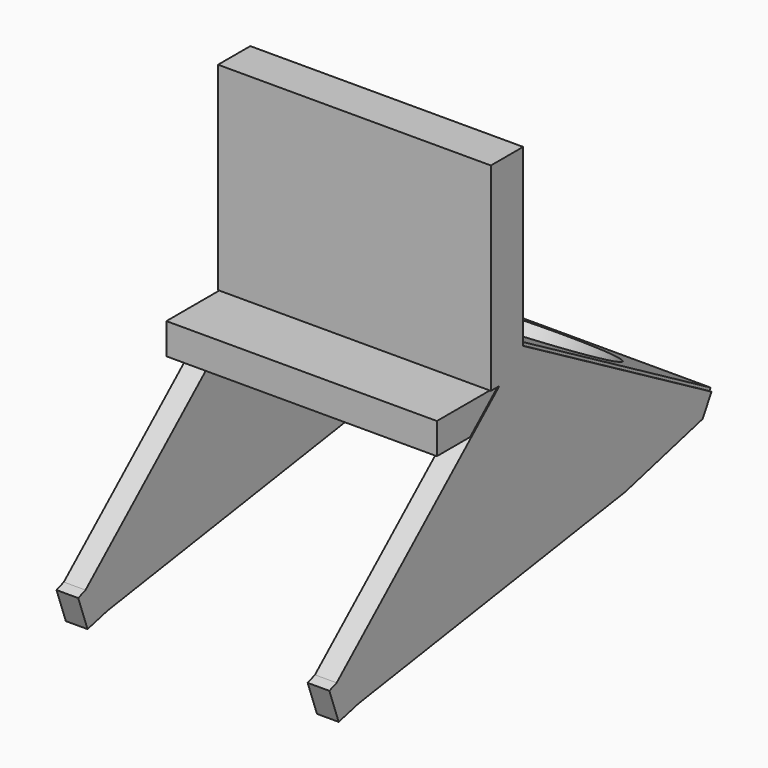
from build123d import *

# Parameters (mm, degrees)
EXTRUDE008_DEPTH                          = 7
EXTRUDE008_ONTO_SKETCH012_ROLL_ANGLE      = 90
EXTRUDE008_ONTO_SKETCH012_PITCH_ANGLE     = -30
EXTRUDE008_ONTO_SKETCH012_PLACEMENT_ANGLE = -90
SKETCH009_W                               = 87.248978
SKETCH009_H                               = 34.299007
EXTRUDE010_DEPTH                          = 10
EXTRUDE011_DEPTH                          = 7
EXTRUDE011_ONTO_SKETCH008_ROLL_ANGLE      = 90
EXTRUDE011_ONTO_SKETCH008_PITCH_ANGLE     = -30
EXTRUDE011_ONTO_SKETCH008_PLACEMENT_ANGLE = -90
SKETCH011_W                               = 88
SKETCH011_H                               = 88
SKETCH011_R                               = 38
EXTRUDE012_DEPTH                          = 7
EXTRUDE012_PLACEMENT_ANGLE                = 30
SKETCH010_W                               = 88
SKETCH010_H                               = 13
EXTRUDE009_DEPTH                          = 64


with BuildPart() as extrude008:
    # Sketch012 as drawn → Extrude008 (new)
    with BuildSketch(Plane.XY):
        Polygon((-123.305188, 6.070855), (-123.344503, -1.169558), (-100.406639, -23.66512), (-15.520081, -91.56636), (-9.4672, -97.367993), (-1.018409, -90.281281), (-3.036737, -87.875028), (-34.868234, 6.09489), align=None)
    extrude(amount=EXTRUDE008_DEPTH)


with BuildPart() as extrude008_1:
    # Extrude008 onto Sketch012 roll: moved
    add(extrude008.part.rotate(Axis((0, 0, 0), (1, 0, 0)), EXTRUDE008_ONTO_SKETCH012_ROLL_ANGLE))


with BuildPart() as extrude008_2:
    # Extrude008 onto Sketch012 pitch: moved
    add(extrude008_1.part.rotate(Axis((0, 0, 0), (0, 1, 0)), EXTRUDE008_ONTO_SKETCH012_PITCH_ANGLE))


with BuildPart() as extrude008_3:
    # Extrude008 onto Sketch012 placement: moved
    add(extrude008_2.part.moved(Location((42.577726, 14, 39))).rotate(Axis((42.577726, 14, 39), (0, 0, 1)), EXTRUDE008_ONTO_SKETCH012_PLACEMENT_ANGLE))


with BuildPart() as extrude008_4:
    # Extrude008 placement: moved
    add(extrude008_3.part.moved(Location((7, 0, 0))))


with BuildPart() as extrude010:
    # Sketch009 → Extrude010 (new body)
    with BuildSketch(Plane.XY):
        with Locations((83.604523, 30.688192)):
            Rectangle(SKETCH009_W, SKETCH009_H)
    extrude(amount=EXTRUDE010_DEPTH)


with BuildPart() as extrude010_1:
    # Extrude010 placement: moved
    add(extrude010.part.moved(Location((3, 0, 9))))


with BuildPart() as extrude011:
    # Sketch008 as drawn → Extrude011 (new)
    with BuildSketch(Plane.XY):
        Polygon((-123.305188, 6.070855), (-123.344503, -1.169558), (-100.406639, -23.66512), (-15.520081, -91.56636), (-9.4672, -97.367993), (-1.018409, -90.281281), (-3.036737, -87.875028), (-34.868234, 6.09489), align=None)
    extrude(amount=EXTRUDE011_DEPTH)


with BuildPart() as extrude011_1:
    # Extrude011 onto Sketch008 roll: moved
    add(extrude011.part.rotate(Axis((0, 0, 0), (1, 0, 0)), EXTRUDE011_ONTO_SKETCH008_ROLL_ANGLE))


with BuildPart() as extrude011_2:
    # Extrude011 onto Sketch008 pitch: moved
    add(extrude011_1.part.rotate(Axis((0, 0, 0), (0, 1, 0)), EXTRUDE011_ONTO_SKETCH008_PITCH_ANGLE))


with BuildPart() as extrude011_3:
    # Extrude011 onto Sketch008 placement: moved
    add(extrude011_2.part.moved(Location((42.577726, 14, 39))).rotate(Axis((42.577726, 14, 39), (0, 0, 1)), EXTRUDE011_ONTO_SKETCH008_PLACEMENT_ANGLE))


with BuildPart() as extrude011_4:
    # Extrude011 placement: moved
    add(extrude011_3.part.moved(Location((88, 0, 0))))


with BuildPart() as extrude012:
    # Sketch011 → Extrude012 (new body)
    with BuildSketch(Plane.XY):
        with Locations((83.189821, 78.875904)):
            Rectangle(SKETCH011_W, SKETCH011_H)
        with Locations((83.189821, 78.875904)):
            Circle(SKETCH011_R, mode=Mode.SUBTRACT)
    extrude(amount=EXTRUDE012_DEPTH)


with BuildPart() as extrude012_1:
    # Extrude012 placement: moved
    add(extrude012.part.moved(Location((3, 14, 39))).rotate(Axis((3, 14, 39), (-1, 0, 0)), EXTRUDE012_PLACEMENT_ANGLE))


with BuildPart() as suporte2:
    # Sketch010 → Extrude009 (new body)
    with BuildSketch(Plane.XY):
        with Locations((83.577726, 41.368692)):
            Rectangle(SKETCH010_W, SKETCH010_H)
    extrude(amount=EXTRUDE009_DEPTH)


with BuildPart() as suporte2_1:
    # Extrude009 placement: moved
    add(suporte2.part.moved(Location((3, 0, 19))))

    # Fusion001: union Extrude008, Extrude010, Extrude011, Extrude012
    add(extrude008_4.part)
    add(extrude010_1.part)
    add(extrude011_4.part)
    add(extrude012_1.part)


with BuildPart() as suporte2_2:
    # Fusion001 placement: moved
    add(suporte2_1.part.moved(Location((130, 10, -42))))


solid = suporte2_2.part
